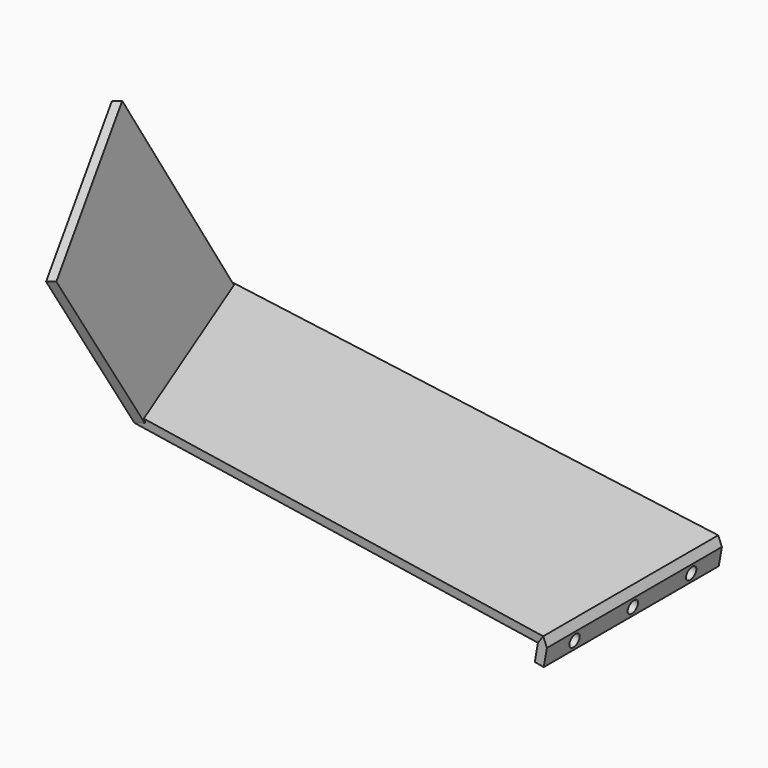
from build123d import *

# Parameters (mm, degrees)
F2_W      = 76.2
F2_H      = 6.35
F2_R      = 2.2225
F3_DEPTH  = 3.175
F6_DEPTH  = 76.2
F8_DEPTH  = 3.175
F11_DEPTH = 3.175


with BuildPart() as f3:
    # F2 (on face) → F3 (new body)
    with BuildSketch(Plane(origin=(29.4081501121, 0, -5.1854503175), x_dir=(0, -1, 0), z_dir=(-0.984807753, 0, 0.1736481777))):
        with Locations((395.4570037365, -172.6052516222)):
            Rectangle(F2_W, F2_H)
        with Locations((370.0570037365, -172.6052516222)):
            Circle(F2_R, mode=Mode.SUBTRACT)
        with Locations((395.4570037365, -172.6052516222)):
            Circle(F2_R, mode=Mode.SUBTRACT)
        with Locations((420.8570037365, -172.6052516222)):
            Circle(F2_R, mode=Mode.SUBTRACT)
    extrude(amount=-F3_DEPTH)

    # F5 (on face) → F6 (join)
    with BuildSketch(Plane.XZ.offset(433.5570037365)):
        Polygon((1.8080008617, -169.4408679692), (-0.0131043237, -172.0416757098), (3.1136602921, -172.5930086739), align=None)
    extrude(amount=-F6_DEPTH)

    # F7 (on face) → F8 (join)
    with BuildSketch(Plane(origin=(-80.8374577566, 0, -115.4478541652), x_dir=(0.8191520443, 0, -0.5735764364), z_dir=(0.5735764364, 0, 0.8191520443))):
        Polygon((98.668316824, -433.5570037365), (98.668316824, -357.3570037365), (-31.963979803, -435.8488063528), (-11.8716898834, -496.0862522298), align=None)
    extrude(amount=F8_DEPTH)

    # F10 (on face) → F11 (join)
    with BuildSketch(Plane(origin=(-207.4110943856, -47.5543564592, -47.6509479128), x_dir=(-0.2125394907, 0.9759316977, -0.0488291537), z_dir=(0.9511529667, 0.2180764118, 0.2185193642))):
        Polygon((-492.3325427071, -31.1929582626), (-459.5935318176, -85.6025820986), (-397.8705177815, -70.6854932975), (-439.3948891587, 0.6603480791), align=None)
    extrude(amount=F11_DEPTH)


solid = f3.part
